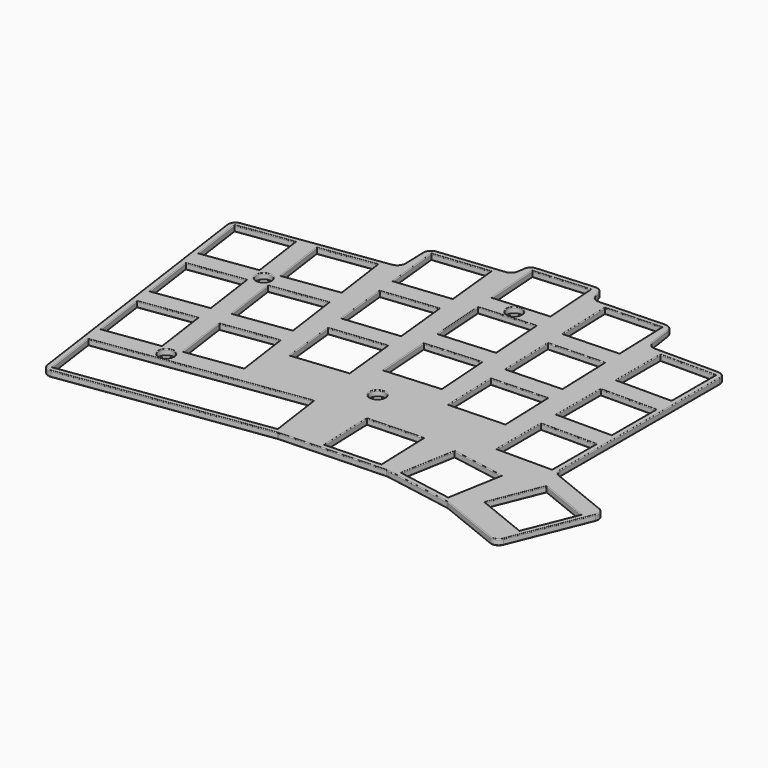
from build123d import *

# Parameters (mm, degrees)
SKETCH_W    = 14
SKETCH_H    = 14
PAD_DEPTH   = 1.5
SKETCH001_R = 1.95
HOLE_DEPTH  = 1.501
FILLET_R    = 0.2


with BuildPart() as part:
    # Sketch → Pad (new body)
    with BuildSketch(Plane.XY):
        with BuildLine():
            ThreePointArc((5.963258, 45.434141), (5.185663, 46.509673), (3.905992, 46.861621))
            Line((-10.29307, 45.868726), (3.905992, 46.861621))
            ThreePointArc((-10.29307, 45.868726), (-11.535539, 45.319324), (-12.140371, 44.102875))
            Line((-12.316991, 42.572372), (-12.140371, 44.102875))
            ThreePointArc((-14.094748, 40.812606), (-12.896802, 41.380262), (-12.316991, 42.572372))
            Line((-30.311186, 39.108189), (-14.094748, 40.812606))
            ThreePointArc((-30.311186, 39.108189), (-31.607466, 38.435945), (-32.101306, 37.061763))
            Line((-31.933484, 31.214903), (-32.101306, 37.061763))
            ThreePointArc((-33.654314, 29.176985), (-32.404572, 29.867194), (-31.933484, 31.214903))
            Line((-68.316273, 24.305564), (-33.654314, 29.176985))
            ThreePointArc((-68.316273, 24.305564), (-69.635198, 23.528658), (-70.018463, 22.046682))
            Line((-60.283305, -47.222569), (-70.018463, 22.046682))
            ThreePointArc((-60.283305, -47.222569), (-59.506399, -48.541494), (-58.024423, -48.924759))
            Line((-6.163644, -41.636202), (-58.024423, -48.924759))
            ThreePointArc((-5.955097, -41.617957), (-6.059609, -41.624349), (-6.163644, -41.636202))
            Line((-5.955097, -41.617957), (20.821551, -40.682895))
            ThreePointArc((21.238646, -40.712062), (21.030863, -40.686549), (20.821551, -40.682895))
            Line((21.238646, -40.712062), (38.623196, -43.777427))
            ThreePointArc((39.025113, -43.892675), (38.827174, -43.824519), (38.623196, -43.777427))
            Line((54.777849, -50.257193), (39.025113, -43.892675))
            ThreePointArc((54.777849, -50.257193), (56.308524, -50.243835), (57.38143, -49.152039))
            Line((65.23412, -29.715947), (57.38143, -49.152039))
            ThreePointArc((65.23412, -29.715947), (65.220762, -28.185272), (64.128966, -27.112366))
            Line((64.128966, -27.112366), (49.041646, -21.016693))
            ThreePointArc((47.790859, -19.162325), (48.132784, -20.280711), (49.041646, -21.016693))
            Line((47.790859, -19.162325), (47.790859, 31.591276))
            ThreePointArc((47.790859, 31.591276), (47.205073, 33.00549), (45.790859, 33.591276))
            Line((29.74797, 33.591276), (45.790859, 33.591276))
            ThreePointArc((27.769077, 35.301477), (28.440223, 34.078068), (29.74797, 33.591276))
            Line((26.897996, 41.249641), (27.769077, 35.301477))
            ThreePointArc((26.897996, 41.249641), (26.200242, 42.495643), (24.849305, 42.958623))
            Line((8.429664, 42.385237), (24.849305, 42.958623))
            ThreePointArc((6.442112, 43.816371), (7.191203, 42.760987), (8.429664, 42.385237))
            Line((5.963258, 45.434141), (6.442112, 43.816371))
        make_face()
        Polygon((-61.393882, -28.722086), (-47.53013, -26.773663), (-49.478553, -12.90991), (-63.342306, -14.858333), align=None, mode=Mode.SUBTRACT)
        Polygon((-64.038171, -9.906993), (-50.174418, -7.95857), (-52.122842, 5.905183), (-65.986595, 3.95676), align=None, mode=Mode.SUBTRACT)
        Polygon((-66.68246, 8.9081), (-52.818707, 10.856524), (-54.767131, 24.720277), (-68.630884, 22.771853), align=None, mode=Mode.SUBTRACT)
        Polygon((-42.578789, -26.077797), (-28.715036, -24.129374), (-30.66346, -10.265621), (-44.527213, -12.214044), align=None, mode=Mode.SUBTRACT)
        Polygon((-45.223078, -7.262704), (-31.359325, -5.314281), (-33.307749, 8.549472), (-47.171501, 6.601049), align=None, mode=Mode.SUBTRACT)
        Polygon((-47.867367, 11.552389), (-34.003614, 13.500813), (-35.952037, 27.364566), (-49.81579, 25.416142), align=None, mode=Mode.SUBTRACT)
        Polygon((-24.988594, -14.101939), (-11.065288, -12.63854), (-12.528686, 1.284766), (-26.451993, -0.178632), align=None, mode=Mode.SUBTRACT)
        Polygon((-26.974635, 4.793977), (-13.051328, 6.257376), (-14.514727, 20.180682), (-28.438033, 18.717284), align=None, mode=Mode.SUBTRACT)
        Polygon((-28.960676, 23.689893), (-15.037369, 25.153292), (-16.500768, 39.076598), (-30.424074, 37.6132), align=None, mode=Mode.SUBTRACT)
        Polygon((-6.494653, -7.471244), (7.471244, -6.494653), (6.494653, 7.471244), (-7.471244, 6.494653), align=None, mode=Mode.SUBTRACT)
        Polygon((-7.820026, 11.482473), (6.145871, 12.459064), (5.16928, 26.424961), (-8.796617, 25.44837), align=None, mode=Mode.SUBTRACT)
        Polygon((-9.145399, 30.43619), (4.820498, 31.412781), (3.843907, 45.378678), (-10.12199, 44.402087), align=None, mode=Mode.SUBTRACT)
        Polygon((12.882117, -10.966876), (26.873588, -10.478283), (26.384995, 3.513189), (12.393524, 3.024596), align=None, mode=Mode.SUBTRACT)
        Polygon((12.219026, 8.02155), (26.210498, 8.510143), (25.721905, 22.501615), (11.730433, 22.013022), align=None, mode=Mode.SUBTRACT)
        Polygon((11.555936, 27.009976), (25.547408, 27.498569), (25.058815, 41.490041), (11.067343, 41.001447), align=None, mode=Mode.SUBTRACT)
        with Locations((39.290859, -12.883724)):
            Rectangle(SKETCH_W, SKETCH_H, mode=Mode.SUBTRACT)
        with Locations((39.290859, 6.116276)):
            Rectangle(SKETCH_W, SKETCH_H, mode=Mode.SUBTRACT)
        with Locations((39.290859, 25.116276)):
            Rectangle(SKETCH_W, SKETCH_H, mode=Mode.SUBTRACT)
        Polygon((-60.698017, -33.673427), (-58.749594, -47.53718), (-7.255654, -40.300179), (-9.204077, -26.436425), align=None, mode=Mode.SUBTRACT)
        Polygon((4.38254, -39.781059), (18.374011, -39.292466), (17.885418, -25.300995), (3.893946, -25.789588), align=None, mode=Mode.SUBTRACT)
        Polygon((23.855877, -39.675796), (37.643185, -42.10687), (40.07426, -28.319562), (26.286951, -25.888487), align=None, mode=Mode.SUBTRACT)
        Polygon((44.704942, -39.217444), (57.685515, -44.461936), (62.930008, -31.481362), (49.949434, -26.23687), align=None, mode=Mode.SUBTRACT)
    extrude(amount=PAD_DEPTH)

    # Sketch001 (on Face124 of Pad) → Hole (cut, through all)
    with BuildSketch(Plane.XY.offset(1.5)):
        with Locations((-44.706527, -28.9014)):
            Circle(SKETCH001_R)
        with Locations((-49.995104, 8.728786)):
            Circle(SKETCH001_R)
        with Locations((-1.98806, 28.430575)):
            Circle(SKETCH001_R)
        with Locations((-0.866417, -16.465539)):
            Circle(SKETCH001_R)
    extrude(amount=-HOLE_DEPTH, mode=Mode.SUBTRACT)

    # Fillet
    fillet_edges = [part.edges().sort_by_distance(p)[0] for p in [
        (6.202685, 44.625256, 1.5),
        (5.185663, 46.509673, 1.5),
        (7.191203, 42.760987, 1.5),
        (-3.193539, 46.365173, 1.5),
        (16.639484, 42.67193, 1.5),
        (-11.535539, 45.319324, 1.5),
        (26.200242, 42.495643, 1.5),
        (-12.228681, 43.337624, 1.5),
        (27.333537, 38.275559, 1.5),
        (-12.896802, 41.380262, 1.5),
        (28.440223, 34.078068, 1.5),
        (-22.202967, 39.960397, 1.5),
        (37.769414, 33.591276, 1.5),
        (-31.607466, 38.435945, 1.5),
        (47.205073, 33.00549, 1.5),
        (-32.017395, 34.138333, 1.5),
        (47.790859, 6.214475, 1.5),
        (-32.404572, 29.867194, 1.5),
        (48.132784, -20.280711, 1.5),
        (-50.985294, 26.741275, 1.5),
        (56.585306, -24.06453, 1.5),
        (-69.635198, 23.528658, 1.5),
        (65.220762, -28.185272, 1.5),
        (-65.150884, -12.587944, 1.5),
        (61.307775, -39.433993, 1.5),
        (-59.506399, -48.541494, 1.5),
        (56.308524, -50.243835, 1.5),
        (-32.094033, -45.280481, 1.5),
        (46.901481, -47.074934, 1.5),
        (-6.059609, -41.624349, 1.5),
        (38.827174, -43.824519, 1.5),
        (7.433227, -41.150426, 1.5),
        (29.930921, -42.244744, 1.5),
        (21.030863, -40.686549, 1.5),
        (-46.656527, -28.9014, 1.5),
        (-59.723805, -40.605303, 1.5),
        (-34.951047, -30.054926, 1.5),
        (-33.002624, -43.918679, 1.5),
        (-8.229866, -33.368302, 1.5),
        (-54.462006, -27.747875, 1.5),
        (-62.368094, -21.79021, 1.5),
        (-48.504341, -19.841786, 1.5),
        (-56.410429, -13.884122, 1.5),
        (-35.646913, -25.103586, 1.5),
        (-43.553001, -19.145921, 1.5),
        (-29.689248, -17.197498, 1.5),
        (-37.595336, -11.239833, 1.5),
        (-57.106295, -8.932781, 1.5),
        (-65.012383, -2.975117, 1.5),
        (-51.14863, -1.026693, 1.5),
        (-59.054718, 4.930972, 1.5),
        (-18.026941, -13.37024, 1.5),
        (-25.720293, -7.140286, 1.5),
        (-11.796987, -5.676887, 1.5),
        (-19.490339, 0.553067, 1.5),
        (11.378275, -39.536763, 1.5),
        (4.138243, -32.785324, 1.5),
        (18.129715, -32.296731, 1.5),
        (10.889682, -25.545291, 1.5),
        (30.749531, -40.891333, 1.5),
        (25.071414, -32.782141, 1.5),
        (38.858722, -35.213216, 1.5),
        (33.180605, -27.104024, 1.5),
        (51.195229, -41.83969, 1.5),
        (47.327188, -32.727157, 1.5),
        (60.307762, -37.971649, 1.5),
        (56.439721, -28.859116, 1.5),
        (-2.816417, -16.465539, 1.5),
        (19.877852, -10.722579, 1.5),
        (12.63782, -3.97114, 1.5),
        (26.629292, -3.482547, 1.5),
        (19.38926, 3.268893, 1.5),
        (39.290859, -19.883724, 1.5),
        (32.290859, -12.883724, 1.5),
        (46.290859, -12.883724, 1.5),
        (39.290859, -5.883724, 1.5),
        (-38.291202, -6.288492, 1.5),
        (-46.19729, -0.330828, 1.5),
        (-32.333537, 1.617596, 1.5),
        (-40.239625, 7.575261, 1.5),
        (-51.945104, 8.728786, 1.5),
        (-61.699007, 23.746065, 1.5),
        (-53.792919, 17.7884, 1.5),
        (-67.656672, 15.839977, 1.5),
        (-59.750584, 9.882312, 1.5),
        (-40.935491, 12.526601, 1.5),
        (-48.841579, 18.484266, 1.5),
        (-34.977826, 20.432689, 1.5),
        (-42.883914, 26.390354, 1.5),
        (-20.012982, 5.525676, 1.5),
        (-27.706334, 11.75563, 1.5),
        (-13.783028, 13.219029, 1.5),
        (-21.47638, 19.448983, 1.5),
        (-21.999022, 24.421592, 1.5),
        (-29.692375, 30.651546, 1.5),
        (-15.769068, 32.114945, 1.5),
        (-23.462421, 38.344899, 1.5),
        (0.488295, -6.982948, 1.5),
        (-6.982948, -0.488295, 1.5),
        (6.982948, 0.488295, 1.5),
        (-0.488295, 6.982948, 1.5),
        (-0.837078, 11.970769, 1.5),
        (-8.308321, 18.465422, 1.5),
        (5.657575, 19.442012, 1.5),
        (-1.813668, 25.936665, 1.5),
        (19.214762, 8.265847, 1.5),
        (11.97473, 15.017286, 1.5),
        (25.966201, 15.505879, 1.5),
        (18.726169, 22.257318, 1.5),
        (39.290859, -0.883724, 1.5),
        (32.290859, 6.116276, 1.5),
        (46.290859, 6.116276, 1.5),
        (39.290859, 13.116276, 1.5),
        (-3.93806, 28.430575, 1.5),
        (-2.162451, 30.924486, 1.5),
        (-9.633694, 37.419139, 1.5),
        (4.332202, 38.395729, 1.5),
        (-3.139041, 44.890382, 1.5),
        (18.551672, 27.254272, 1.5),
        (11.311639, 34.005712, 1.5),
        (25.303111, 34.494305, 1.5),
        (18.063079, 41.245744, 1.5),
        (39.290859, 18.116276, 1.5),
        (32.290859, 25.116276, 1.5),
        (46.290859, 25.116276, 1.5),
        (39.290859, 32.116276, 1.5),
        (6.202685, 44.625256, 0),
        (5.185663, 46.509673, 0),
        (7.191203, 42.760987, 0),
        (-3.193539, 46.365173, 0),
        (16.639484, 42.67193, 0),
        (-11.535539, 45.319324, 0),
        (26.200242, 42.495643, 0),
        (-12.228681, 43.337624, 0),
        (27.333537, 38.275559, 0),
        (-12.896802, 41.380262, 0),
        (28.440223, 34.078068, 0),
        (-22.202967, 39.960397, 0),
        (37.769414, 33.591276, 0),
        (-31.607466, 38.435945, 0),
        (47.205073, 33.00549, 0),
        (-32.017395, 34.138333, 0),
        (47.790859, 6.214475, 0),
        (-32.404572, 29.867194, 0),
        (48.132784, -20.280711, 0),
        (-50.985294, 26.741275, 0),
        (56.585306, -24.06453, 0),
        (-69.635198, 23.528658, 0),
        (65.220762, -28.185272, 0),
        (-65.150884, -12.587944, 0),
        (61.307775, -39.433993, 0),
        (-59.506399, -48.541494, 0),
        (56.308524, -50.243835, 0),
        (-32.094033, -45.280481, 0),
        (46.901481, -47.074934, 0),
        (-6.059609, -41.624349, 0),
        (38.827174, -43.824519, 0),
        (7.433227, -41.150426, 0),
        (29.930921, -42.244744, 0),
        (21.030863, -40.686549, 0),
        (-46.656527, -28.9014, 0),
        (-59.723805, -40.605303, 0),
        (-34.951047, -30.054926, 0),
        (-33.002624, -43.918679, 0),
        (-8.229866, -33.368302, 0),
        (-54.462006, -27.747875, 0),
        (-62.368094, -21.79021, 0),
        (-48.504341, -19.841786, 0),
        (-56.410429, -13.884122, 0),
        (-35.646913, -25.103586, 0),
        (-43.553001, -19.145921, 0),
        (-29.689248, -17.197498, 0),
        (-37.595336, -11.239833, 0),
        (-57.106295, -8.932781, 0),
        (-65.012383, -2.975117, 0),
        (-51.14863, -1.026693, 0),
        (-59.054718, 4.930972, 0),
        (-18.026941, -13.37024, 0),
        (-25.720293, -7.140286, 0),
        (-11.796987, -5.676887, 0),
        (-19.490339, 0.553067, 0),
        (11.378275, -39.536763, 0),
        (4.138243, -32.785324, 0),
        (18.129715, -32.296731, 0),
        (10.889682, -25.545291, 0),
        (30.749531, -40.891333, 0),
        (25.071414, -32.782141, 0),
        (38.858722, -35.213216, 0),
        (33.180605, -27.104024, 0),
        (51.195229, -41.83969, 0),
        (47.327188, -32.727157, 0),
        (60.307762, -37.971649, 0),
        (56.439721, -28.859116, 0),
        (-2.816417, -16.465539, 0),
        (19.877852, -10.722579, 0),
        (12.63782, -3.97114, 0),
        (26.629292, -3.482547, 0),
        (19.38926, 3.268893, 0),
        (39.290859, -19.883724, 0),
        (32.290859, -12.883724, 0),
        (46.290859, -12.883724, 0),
        (39.290859, -5.883724, 0),
        (-38.291202, -6.288492, 0),
        (-46.19729, -0.330828, 0),
        (-32.333537, 1.617596, 0),
        (-40.239625, 7.575261, 0),
        (-51.945104, 8.728786, 0),
        (-61.699007, 23.746065, 0),
        (-53.792919, 17.7884, 0),
        (-67.656672, 15.839977, 0),
        (-59.750584, 9.882312, 0),
        (-40.935491, 12.526601, 0),
        (-48.841579, 18.484266, 0),
        (-34.977826, 20.432689, 0),
        (-42.883914, 26.390354, 0),
        (-20.012982, 5.525676, 0),
        (-27.706334, 11.75563, 0),
        (-13.783028, 13.219029, 0),
        (-21.47638, 19.448983, 0),
        (-21.999022, 24.421592, 0),
        (-29.692375, 30.651546, 0),
        (-15.769068, 32.114945, 0),
        (-23.462421, 38.344899, 0),
        (0.488295, -6.982948, 0),
        (-6.982948, -0.488295, 0),
        (6.982948, 0.488295, 0),
        (-0.488295, 6.982948, 0),
        (-0.837078, 11.970769, 0),
        (-8.308321, 18.465422, 0),
        (5.657575, 19.442012, 0),
        (-1.813668, 25.936665, 0),
        (19.214762, 8.265847, 0),
        (11.97473, 15.017286, 0),
        (25.966201, 15.505879, 0),
        (18.726169, 22.257318, 0),
        (39.290859, -0.883724, 0),
        (32.290859, 6.116276, 0),
        (46.290859, 6.116276, 0),
        (39.290859, 13.116276, 0),
        (-3.93806, 28.430575, 0),
        (-2.162451, 30.924486, 0),
        (-9.633694, 37.419139, 0),
        (4.332202, 38.395729, 0),
        (-3.139041, 44.890382, 0),
        (18.551672, 27.254272, 0),
        (11.311639, 34.005712, 0),
        (25.303111, 34.494305, 0),
        (18.063079, 41.245744, 0),
        (39.290859, 18.116276, 0),
        (32.290859, 25.116276, 0),
        (46.290859, 25.116276, 0),
        (39.290859, 32.116276, 0),
    ]]
    fillet(fillet_edges, radius=FILLET_R)


solid = part.part
